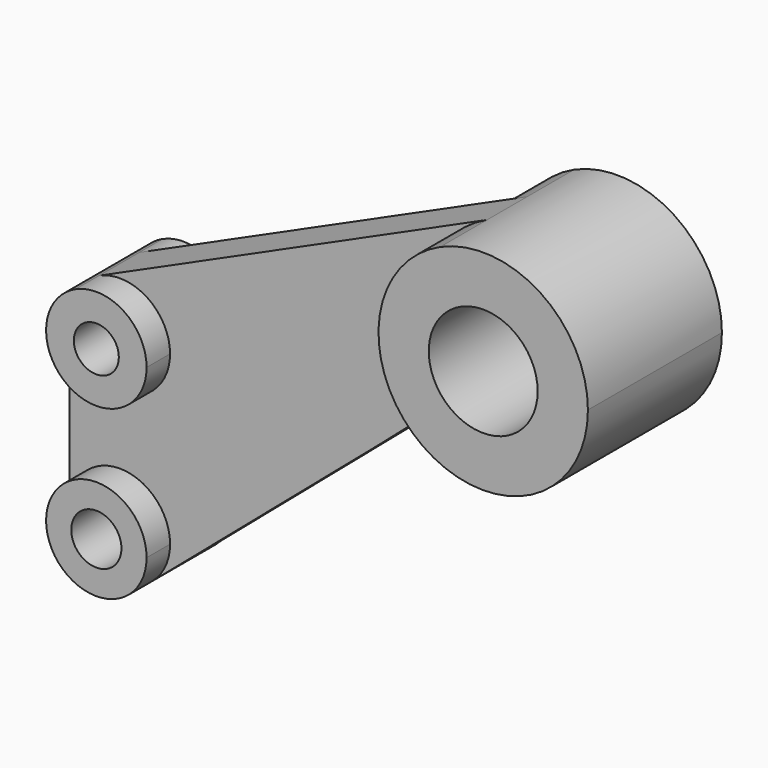
from build123d import *

# Parameters (mm, degrees)
F1_DEPTH = 5.9944
F0_R     = 13.0048
F2_DEPTH = 20.0025
F0_R_2   = 5.371097
F0_R_3   = 5.9944
F3_DEPTH = 13.0048


with BuildPart() as f1:
    # F0 (on Front) → F1 (new body, symmetric)
    with BuildSketch(Plane.XZ):
        with BuildLine():
            ThreePointArc((-72.526456, -36.31248), (-60.524956, -24.31098), (-48.523456, -36.31248))
            ThreePointArc((-48.523456, -36.31248), (-49.624469, -41.333973), (-52.725496, -45.434126))
            Line((-52.725496, -45.434126), (1.699654, 1.102078))
            Line((1.699654, 1.102078), (12.083406, 10.143629))
            ThreePointArc((12.083406, 10.143629), (18.620412, 13.016223), (25.631266, 11.662642))
            ThreePointArc((25.631266, 11.662642), (12.476738, 34.549967), (27.173551, 56.478828))
            Line((27.173551, 56.478828), (-65.465781, 14.629807))
            ThreePointArc((-65.465781, 14.629807), (-54.015782, 13.775509), (-48.523456, 3.69252))
            ThreePointArc((-48.523456, 3.69252), (-60.524956, -8.30898), (-72.526456, 3.69252))
            Line((-72.526456, 3.69252), (-72.526456, -36.31248))
        make_face()
    extrude(amount=F1_DEPTH, both=True)

    # F0 (on Front) → F2 (join, symmetric)
    with BuildSketch(Plane.XZ):
        with BuildLine():
            ThreePointArc((62.474544, 33.68992), (51.030745, 54.698814), (27.173551, 56.478828))
            ThreePointArc((27.173551, 56.478828), (12.476738, 34.549967), (25.631266, 11.662642))
            ThreePointArc((25.631266, 11.662642), (50.300158, 12.226998), (62.474544, 33.68992))
        make_face()
        with Locations((37.468244, 33.68992)):
            Circle(F0_R, mode=Mode.SUBTRACT)
    extrude(amount=F2_DEPTH, both=True)

    # F0 (on Front) → F3 (join, symmetric)
    with BuildSketch(Plane.XZ):
        with BuildLine():
            ThreePointArc((-65.465781, 14.629807), (-70.607945, 10.201694), (-72.526456, 3.69252))
            ThreePointArc((-72.526456, 3.69252), (-60.524956, -8.30898), (-48.523456, 3.69252))
            ThreePointArc((-48.523456, 3.69252), (-54.015782, 13.775509), (-65.465781, 14.629807))
        make_face()
        with Locations((-60.524956, 3.69252)):
            Circle(F0_R_2, mode=Mode.SUBTRACT)
        with BuildLine():
            ThreePointArc((-52.725496, -45.434126), (-49.624469, -41.333973), (-48.523456, -36.31248))
            ThreePointArc((-48.523456, -36.31248), (-60.524956, -24.31098), (-72.526456, -36.31248))
            ThreePointArc((-72.526456, -36.31248), (-65.546449, -47.212966), (-52.725496, -45.434126))
        make_face()
        with Locations((-60.524956, -36.31248)):
            Circle(F0_R_3, mode=Mode.SUBTRACT)
    extrude(amount=F3_DEPTH, both=True)


solid = f1.part
